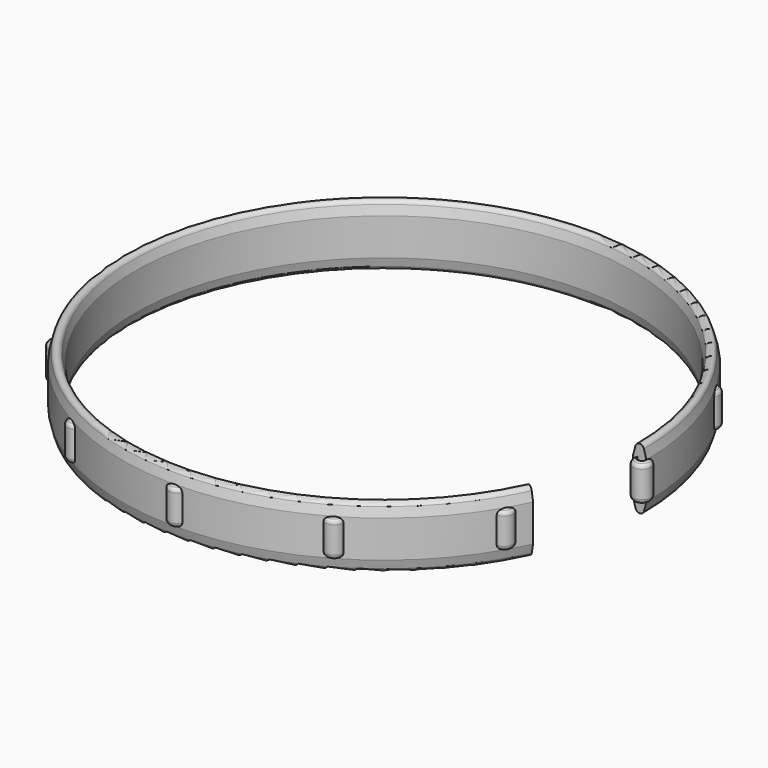
from build123d import *

# Parameters (mm, degrees)
F2_COUNT = 12
F3_ANGLE = 335


with BuildPart() as f1:
    # F0 (on Front) → F1 (revolve)
    with BuildSketch(Plane.XZ):
        with BuildLine():
            Line((15.1384, 1.772146), (15.0114, 1.845469))
            Line((15.0114, 1.845469), (15.0114, -0.270669))
            Line((15.0114, -0.270669), (15.1384, -0.197346))
            ThreePointArc((15.1384, -0.197346), (15.23137, -0.104375), (15.2654, 0.022625))
            Line((15.2654, 0.022625), (15.2654, 1.552175))
            ThreePointArc((15.2654, 1.552175), (15.23137, 1.679175), (15.1384, 1.772146))
        make_face()
    revolve(axis=Axis((14.7574, 0, 1.127692), (0, 0, -1)))


with BuildPart() as f2_1:
    # F2: instance of F1
    add(f1.part.rotate(Axis((0, 0, 1.969752), (0, 0, 1)), 1 * 360 / F2_COUNT))


with BuildPart() as f2_2:
    # F2: instance of F1
    add(f1.part.rotate(Axis((0, 0, 1.969752), (0, 0, 1)), 2 * 360 / F2_COUNT))


with BuildPart() as f2_3:
    # F2: instance of F1
    add(f1.part.rotate(Axis((0, 0, 1.969752), (0, 0, 1)), 3 * 360 / F2_COUNT))


with BuildPart() as f2_4:
    # F2: instance of F1
    add(f1.part.rotate(Axis((0, 0, 1.969752), (0, 0, 1)), 4 * 360 / F2_COUNT))


with BuildPart() as f2_5:
    # F2: instance of F1
    add(f1.part.rotate(Axis((0, 0, 1.969752), (0, 0, 1)), 5 * 360 / F2_COUNT))


with BuildPart() as f2_6:
    # F2: instance of F1
    add(f1.part.rotate(Axis((0, 0, 1.969752), (0, 0, 1)), 6 * 360 / F2_COUNT))


with BuildPart() as f2_7:
    # F2: instance of F1
    add(f1.part.rotate(Axis((0, 0, 1.969752), (0, 0, 1)), 7 * 360 / F2_COUNT))


with BuildPart() as f2_8:
    # F2: instance of F1
    add(f1.part.rotate(Axis((0, 0, 1.969752), (0, 0, 1)), 8 * 360 / F2_COUNT))


with BuildPart() as f2_9:
    # F2: instance of F1
    add(f1.part.rotate(Axis((0, 0, 1.969752), (0, 0, 1)), 9 * 360 / F2_COUNT))


with BuildPart() as f2_10:
    # F2: instance of F1
    add(f1.part.rotate(Axis((0, 0, 1.969752), (0, 0, 1)), 10 * 360 / F2_COUNT))


with BuildPart() as f2_11:
    # F2: instance of F1
    add(f1.part.rotate(Axis((0, 0, 1.969752), (0, 0, 1)), 11 * 360 / F2_COUNT))


with BuildPart() as f3:
    # F0 (on Front) → F3 (revolve)
    with BuildSketch(Plane.XZ):
        with BuildLine():
            Line((15.0114, -0.270669), (15.0114, 1.845469))
            Line((15.0114, 1.845469), (14.875745, 2.35174))
            ThreePointArc((14.875745, 2.35174), (14.6304, 2.54), (14.385055, 2.35174))
            Line((14.385055, 2.35174), (14.2494, 1.845469))
            Line((14.2494, 1.845469), (14.2494, -0.270669))
            Line((14.2494, -0.270669), (14.385055, -0.77694))
            ThreePointArc((14.385055, -0.77694), (14.6304, -0.9652), (14.875745, -0.77694))
            Line((14.875745, -0.77694), (15.0114, -0.270669))
        make_face()
    revolve(axis=Axis((0, 0, 1.969752), (0, 0, 1)), revolution_arc=F3_ANGLE)


solid = Compound([f1.part, f2_1.part, f2_2.part, f2_3.part, f2_4.part, f2_5.part, f2_6.part, f2_7.part, f2_8.part, f2_9.part, f2_10.part, f2_11.part, f3.part])
